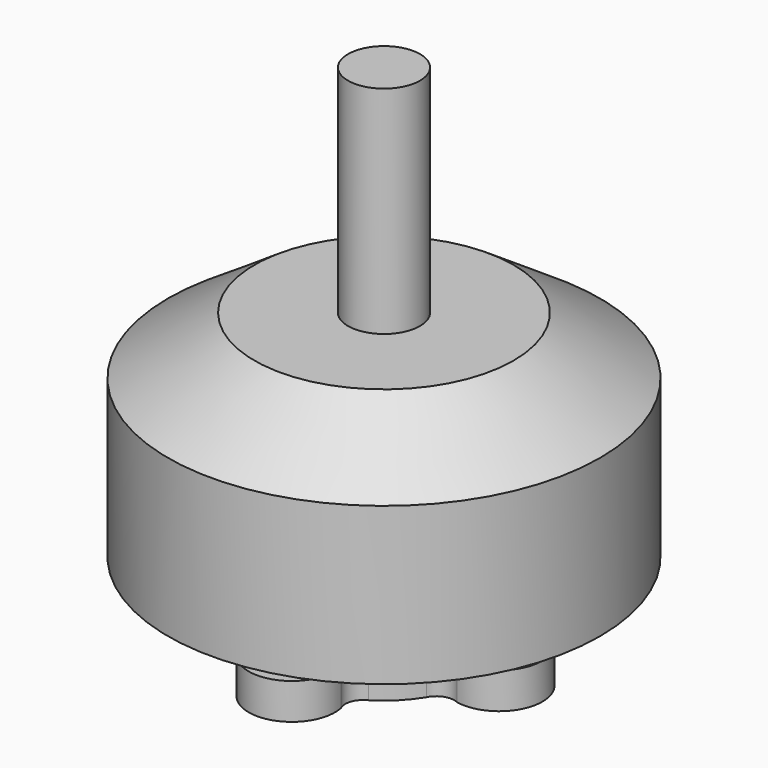
from build123d import *

# Parameters (mm, degrees)
SKETCH_R      = 1.5
PAD_DEPTH     = 2.5
SKETCH001_R   = 4.25
PAD001_DEPTH  = 2.8
SKETCH002_R   = 15
PAD002_DEPTH  = 14.9
SKETCH003_R   = 2.5
PAD003_DEPTH  = 15
CHAMFER_SIZE2 = 6
CHAMFER_SIZE  = 4
SKETCH004_R   = 5
POCKET_DEPTH  = 1
SKETCH005_R   = 4
PAD004_DEPTH  = 1
SKETCH006_R   = 2
PAD005_DEPTH  = 0.95


with BuildPart() as part:
    # Sketch → Pad (new body)
    with BuildSketch(Plane.XY):
        with BuildLine():
            ThreePointArc((2.946794, 7.4375), (0, 11), (-2.946794, 7.4375))
            ThreePointArc((-3.519561, 5.765095), (-2.886811, 6.482674), (-2.946794, 7.4375))
            ThreePointArc((-3.519561, 5.765095), (-4.776172, 4.776172), (-5.765095, 3.519561))
            ThreePointArc((-7.4375, 2.946794), (-6.482674, 2.886811), (-5.765095, 3.519561))
            ThreePointArc((-7.4375, 2.946794), (-11, 0), (-7.4375, -2.946794))
            ThreePointArc((-5.765095, -3.519561), (-6.482674, -2.886811), (-7.4375, -2.946794))
            ThreePointArc((-5.765095, -3.519561), (-4.776172, -4.776172), (-3.519561, -5.765095))
            ThreePointArc((-2.946794, -7.4375), (-2.886811, -6.482674), (-3.519561, -5.765095))
            ThreePointArc((-2.946794, -7.4375), (0, -11), (2.946794, -7.4375))
            ThreePointArc((3.519561, -5.765095), (2.886811, -6.482674), (2.946794, -7.4375))
            ThreePointArc((3.519561, -5.765095), (4.776172, -4.776172), (5.765095, -3.519561))
            ThreePointArc((7.4375, -2.946794), (6.482674, -2.886811), (5.765095, -3.519561))
            ThreePointArc((7.4375, -2.946794), (11, 0), (7.4375, 2.946794))
            ThreePointArc((5.765095, 3.519561), (6.482674, 2.886811), (7.4375, 2.946794))
            ThreePointArc((5.765095, 3.519561), (4.776172, 4.776172), (3.519561, 5.765095))
            ThreePointArc((2.946794, 7.4375), (2.886811, 6.482674), (3.519561, 5.765095))
        make_face()
        with Locations((0, 8)):
            Circle(SKETCH_R, mode=Mode.SUBTRACT)
        with Locations((8, 0)):
            Circle(SKETCH_R, mode=Mode.SUBTRACT)
        with Locations((0, -8)):
            Circle(SKETCH_R, mode=Mode.SUBTRACT)
        with Locations((-8, 0)):
            Circle(SKETCH_R, mode=Mode.SUBTRACT)
    extrude(amount=PAD_DEPTH)

    # Sketch001 (on Face22 of Pad) → Pad001 (join)
    with BuildSketch(Plane.XY.offset(2.5)):
        Circle(SKETCH001_R)
    extrude(amount=PAD001_DEPTH)

    # Sketch002 (on Face24 of Pad001) → Pad002 (join)
    with BuildSketch(Plane.XY.offset(5.3)):
        Circle(SKETCH002_R)
    extrude(amount=PAD002_DEPTH)

    # Sketch003 (on Face3 of Pad002) → Pad003 (join)
    with BuildSketch(Plane.XY.offset(20.2)):
        Circle(SKETCH003_R)
    extrude(amount=PAD003_DEPTH)

    # Chamfer
    chamfer_edges = [part.edges().sort_by_distance(p)[0] for p in [
        (-15, 0, 20.2),
    ]]
    chamfer_side = part.faces().sort_by_distance((-15, 0, 12.75))[0]
    chamfer(chamfer_edges, length=CHAMFER_SIZE, length2=CHAMFER_SIZE2, reference=chamfer_side)

    # Sketch004 (on Face29 of Chamfer) → Pocket (cut)
    with BuildSketch(Plane(origin=(0, 0, 0), x_dir=(1, 0, 0), z_dir=(0, 0, -1))):
        Circle(SKETCH004_R)
    extrude(amount=-POCKET_DEPTH, mode=Mode.SUBTRACT)

    # Sketch005 (on Face31 of Pocket) → Pad004 (join)
    with BuildSketch(Plane(origin=(0, 0, 1), x_dir=(1, 0, 0), z_dir=(0, 0, -1))):
        Circle(SKETCH005_R)
    extrude(amount=PAD004_DEPTH)

    # Sketch006 (on Face33 of Pad004) → Pad005 (join)
    with BuildSketch(Plane(origin=(0, 0, 0), x_dir=(1, 0, 0), z_dir=(0, 0, -1))):
        Circle(SKETCH006_R)
    extrude(amount=PAD005_DEPTH)


solid = part.part
